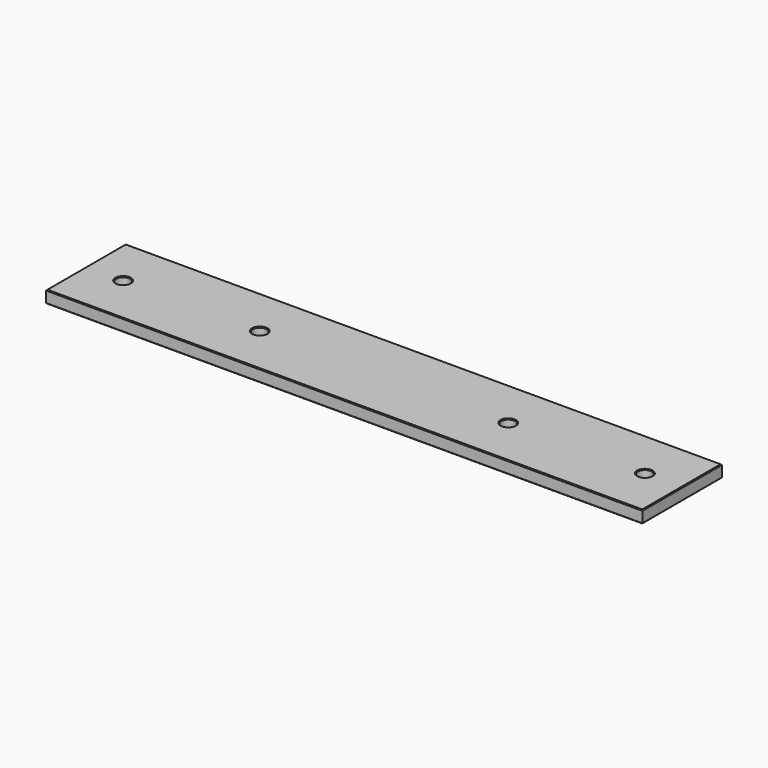
from build123d import *

# Parameters (mm, degrees)
F0_W     = 304.8
F0_H     = 50.8
F0_R     = 3.5687
F1_DEPTH = 6.35
F2_SIZE  = 0.39624


with BuildPart() as f1:
    # F0 (on Top) → F1 (new body)
    with BuildSketch(Plane.XY):
        Rectangle(F0_W, F0_H)
        with Locations((-133.35, 0)):
            Circle(F0_R, mode=Mode.SUBTRACT)
        with Locations((-63.5, 0)):
            Circle(F0_R, mode=Mode.SUBTRACT)
        with Locations((63.5, 0)):
            Circle(F0_R, mode=Mode.SUBTRACT)
        with Locations((133.35, 0)):
            Circle(F0_R, mode=Mode.SUBTRACT)
    extrude(amount=F1_DEPTH)

    # F2
    f2_edges = [f1.edges().sort_by_distance(p)[0] for p in [
        (152.4, 0, 0),
        (0, 25.4, 0),
        (-152.4, 0, 0),
        (0, -25.4, 0),
        (-136.9187, 0, 0),
        (-67.0687, 0, 0),
        (59.9313, 0, 0),
        (129.7813, 0, 0),
        (0, 25.4, 6.35),
        (152.4, 0, 6.35),
        (-152.4, 0, 6.35),
        (0, -25.4, 6.35),
        (-136.9187, 0, 6.35),
        (-67.0687, 0, 6.35),
        (59.9313, 0, 6.35),
        (129.7813, 0, 6.35),
    ]]
    chamfer(f2_edges, length=F2_SIZE)


solid = f1.part
